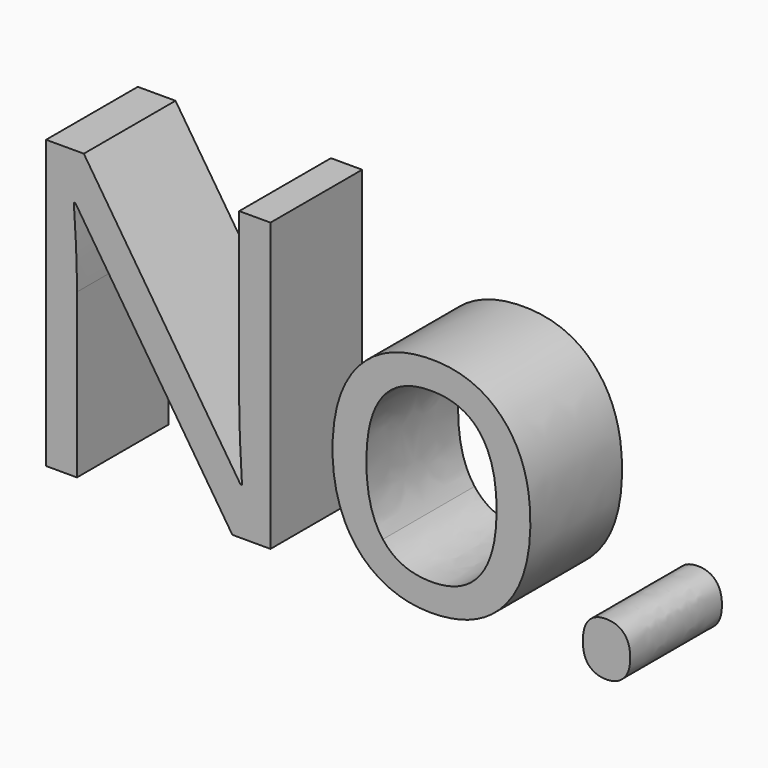
from build123d import *

# Parameters (mm, degrees)
F1_DEPTH = 25.4
F2_DEPTH = 25.4
F3_DEPTH = 25.4


with BuildPart() as f1:
    # F0 (on Front) → F1 (new body)
    with BuildSketch(Plane.XZ):
        with BuildLine():
            add(Edge.make_bspline(
                [(59.0189850758, 18.1570056169), (59.0189850758, 6.4820364458), (53.1466706299, -0.0729432619)],
                knots=[0, 0, 0, 1, 1, 1], degree=2))
            add(Edge.make_bspline(
                [(53.1188067417, 36.1779753338), (59.0189850758, 29.5115400732), (59.0189850758, 18.1570056169)],
                knots=[0, 0, 0, 1, 1, 1], degree=2))
            add(Edge.make_bspline(
                [(37.2154925307, 42.8444105944), (47.2186284076, 42.8444105944), (53.1188067417, 36.1779753338)],
                knots=[0, 0, 0, 1, 1, 1], degree=2))
            add(Edge.make_bspline(
                [(21.0126415211, 36.3312267191), (26.8501261067, 42.8444105944), (37.2154925307, 42.8444105944)],
                knots=[0, 0, 0, 1, 1, 1], degree=2))
            add(Edge.make_bspline(
                [(15.1751569356, 18.1570056169), (15.1751569356, 29.8180428438), (21.0126415211, 36.3312267191)],
                knots=[0, 0, 0, 1, 1, 1], degree=2))
            add(Edge.make_bspline(
                [(17.8779540945, 5.0052503692), (15.1751569356, 10.6198238489), (15.1751569356, 18.1570056169)],
                knots=[0, 0, 0, 1, 1, 1], degree=2))
            add(Edge.make_bspline(
                [(25.5405233596, -3.61862304), (20.5807512535, -0.6093231104), (17.8779540945, 5.0052503692)],
                knots=[0, 0, 0, 1, 1, 1], degree=2))
            add(Edge.make_bspline(
                [(36.9089897601, -6.6279229695), (30.5002954657, -6.6279229695), (25.5405233596, -3.61862304)],
                knots=[0, 0, 0, 1, 1, 1], degree=2))
            add(Edge.make_bspline(
                [(53.1466706299, -0.0729432619), (47.2743561841, -6.6279229695), (36.9089897601, -6.6279229695)],
                knots=[0, 0, 0, 1, 1, 1], degree=2))
        make_face()
        with BuildLine():
            add(Edge.make_bspline(
                [(22.6705428712, 18.1570056169), (22.6705428712, 9.0037183312), (26.3276782023, 4.2180955265)],
                knots=[0, 0, 0, 1, 1, 1], degree=2))
            add(Edge.make_bspline(
                [(26.2858823699, 32.0401879307), (22.6705428712, 27.3799526232), (22.6705428712, 18.1570056169)],
                knots=[0, 0, 0, 1, 1, 1], degree=2))
            add(Edge.make_bspline(
                [(36.9925814248, 36.7004232383), (29.9012218686, 36.7004232383), (26.2858823699, 32.0401879307)],
                knots=[0, 0, 0, 1, 1, 1], degree=2))
            add(Edge.make_bspline(
                [(47.859497837, 31.9774941822), (44.1814645898, 36.7004232383), (36.9925814248, 36.7004232383)],
                knots=[0, 0, 0, 1, 1, 1], degree=2))
            add(Edge.make_bspline(
                [(51.5375310843, 18.1570056169), (51.5375310843, 27.2545651261), (47.859497837, 31.9774941822)],
                knots=[0, 0, 0, 1, 1, 1], degree=2))
            add(Edge.make_bspline(
                [(47.859497837, 4.1971976104), (51.5375310843, 8.9619224988), (51.5375310843, 18.1570056169)],
                knots=[0, 0, 0, 1, 1, 1], degree=2))
            add(Edge.make_bspline(
                [(37.0761730895, -0.5675272781), (44.1814645898, -0.5675272781), (47.859497837, 4.1971976104)],
                knots=[0, 0, 0, 1, 1, 1], degree=2))
            add(Edge.make_bspline(
                [(26.3276782023, 4.2180955265), (29.9848135333, -0.5675272781), (37.0761730895, -0.5675272781)],
                knots=[0, 0, 0, 1, 1, 1], degree=2))
        make_face(mode=Mode.SUBTRACT)
    extrude(amount=F1_DEPTH)


with BuildPart() as f2:
    # F0 (on Front) → F2 (new body)
    with BuildSketch(Plane.XZ):
        with BuildLine():
            Line((-7.0184300448, -5.7502104901), (1.4243280909, -5.7502104901))
            Line((1.4243280909, -5.7502104901), (1.4243280909, 57.9048421863))
            Line((1.4243280909, 57.9048421863), (-5.4998481359, 57.9048421863))
            Line((-5.4998481359, 57.9048421863), (-5.4998481359, 21.3752847082))
            add(Edge.make_bspline(
                [(-5.27693703, 12.2498613107), (-5.5834398006, 18.6306917169), (-5.4998481359, 21.3752847082)],
                knots=[0, 0, 0, 1, 1, 1], degree=2))
            add(Edge.make_bspline(
                [(-4.8868425947, 4.6987475986), (-4.9704342594, 5.8690309046), (-5.27693703, 12.2498613107)],
                knots=[0, 0, 0, 1, 1, 1], degree=2))
            Line((-4.8868425947, 4.6987475986), (-5.2351411977, 4.6987475986))
            Line((-5.2351411977, 4.6987475986), (-39.9396139963, 57.9048421863))
            Line((-39.9396139963, 57.9048421863), (-48.2987804672, 57.9048421863))
            Line((-48.2987804672, 57.9048421863), (-48.2987804672, -5.7502104901))
            Line((-48.2987804672, -5.7502104901), (-41.4581959052, -5.7502104901))
            Line((-41.4581959052, -5.7502104901), (-41.4581959052, 30.4310483851))
            add(Edge.make_bspline(
                [(-42.1547931111, 47.6648632593), (-41.4581959052, 38.2608009795), (-41.4581959052, 30.4310483851)],
                knots=[0, 0, 0, 1, 1, 1], degree=2))
            Line((-42.1547931111, 47.6648632593), (-41.8064945081, 47.6648632593))
            Line((-41.8064945081, 47.6648632593), (-7.0184300448, -5.7502104901))
        make_face()
    extrude(amount=F2_DEPTH)


with BuildPart() as f3:
    # F0 (on Front) → F3 (new body)
    with BuildSketch(Plane.XZ):
        with BuildLine():
            add(Edge.make_bspline(
                [(70.6521584145, -1.1387369869), (70.6521584145, 1.7869712779), (71.9826590778, 3.2846552706)],
                knots=[0, 0, 0, 1, 1, 1], degree=2))
            add(Edge.make_bspline(
                [(72.1080465749, -5.6457209092), (70.6521584145, -4.2734244135), (70.6521584145, -1.1387369869)],
                knots=[0, 0, 0, 1, 1, 1], degree=2))
            add(Edge.make_bspline(
                [(75.7930457941, -7.0180174048), (73.5639347352, -7.0180174048), (72.1080465749, -5.6457209092)],
                knots=[0, 0, 0, 1, 1, 1], degree=2))
            add(Edge.make_bspline(
                [(79.7079220914, -5.4924695239), (78.2729318472, -7.0180174048), (75.7930457941, -7.0180174048)],
                knots=[0, 0, 0, 1, 1, 1], degree=2))
            add(Edge.make_bspline(
                [(81.1429123356, -1.1387369869), (81.1429123356, -3.9669216429), (79.7079220914, -5.4924695239)],
                knots=[0, 0, 0, 1, 1, 1], degree=2))
            add(Edge.make_bspline(
                [(79.7288200076, 3.2846552706), (81.1429123356, 1.7869712779), (81.1429123356, -1.1387369869)],
                knots=[0, 0, 0, 1, 1, 1], degree=2))
            add(Edge.make_bspline(
                [(75.7930457941, 4.7823392633), (78.3147276796, 4.7823392633), (79.7288200076, 3.2846552706)],
                knots=[0, 0, 0, 1, 1, 1], degree=2))
            add(Edge.make_bspline(
                [(71.9826590778, 3.2846552706), (73.3131597411, 4.7823392633), (75.7930457941, 4.7823392633)],
                knots=[0, 0, 0, 1, 1, 1], degree=2))
        make_face()
    extrude(amount=F3_DEPTH)


solid = Compound([f1.part, f2.part, f3.part])
